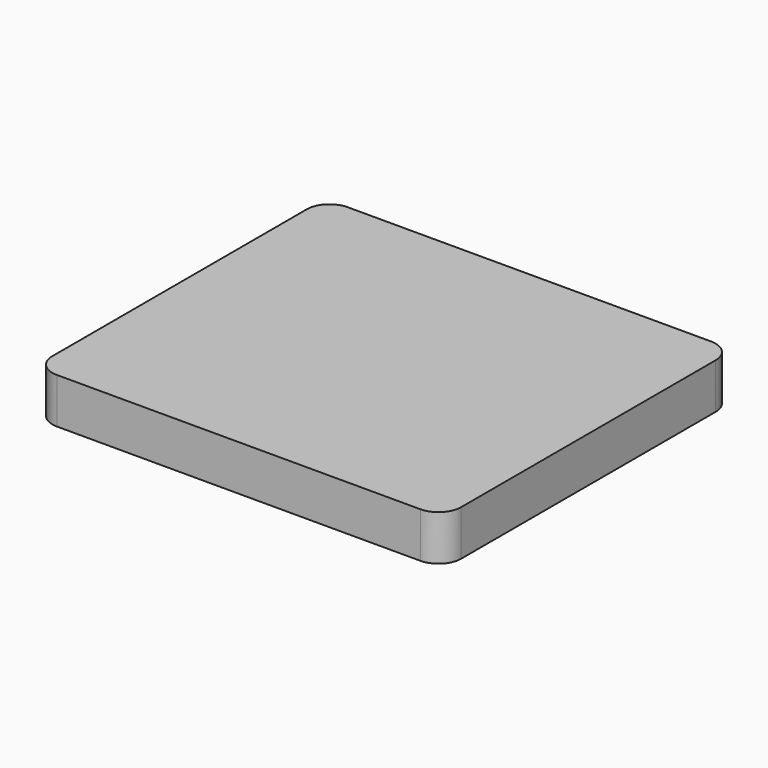
from build123d import *

# Parameters (mm, degrees)
SKETCH_W  = 18
SKETCH_H  = 16
PAD_DEPTH = 2
FILLET_R  = 1


with BuildPart() as part:
    # Sketch → Pad (new body)
    with BuildSketch(Plane.XY):
        with Locations((-9, 8)):
            Rectangle(SKETCH_W, SKETCH_H)
    extrude(amount=PAD_DEPTH)

    # Fillet
    fillet_edges = [part.edges().sort_by_distance(p)[0] for p in [
        (-18, 0, 1),
        (0, 0, 1),
        (0, 16, 1),
        (-18, 16, 1),
    ]]
    fillet(fillet_edges, radius=FILLET_R)


solid = part.part
